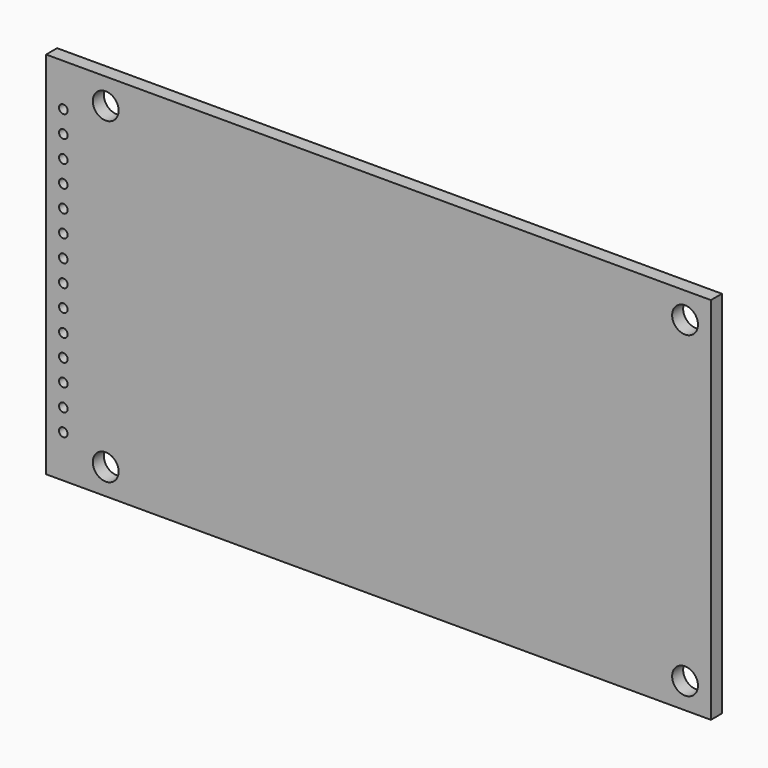
from build123d import *

# Parameters (mm, degrees)
SKETCH002_W         = 77.18
SKETCH002_H         = 42.9
SKETCH002_R         = 1.5
PAD002_DEPTH        = 1.6
SKETCH004_R         = 0.5
POCKET_DEPTH        = 5.801
POCKET_DEPTH_BACK   = 0.001
LINEARPATTERN_COUNT = 14
LINEARPATTERN_PITCH = 2.54


with BuildPart() as part:
    # Sketch002 → Pad002 (new body)
    with BuildSketch(Plane.XZ.offset(-4.2)):
        with Locations((-5.1, 0)):
            Rectangle(SKETCH002_W, SKETCH002_H)
        with Locations((30.49, 18.45)):
            Circle(SKETCH002_R, mode=Mode.SUBTRACT)
        with Locations((30.49, -18.45)):
            Circle(SKETCH002_R, mode=Mode.SUBTRACT)
        with Locations((-36.77, -18.45)):
            Circle(SKETCH002_R, mode=Mode.SUBTRACT)
        with Locations((-36.77, 18.45)):
            Circle(SKETCH002_R, mode=Mode.SUBTRACT)
    extrude(amount=-PAD002_DEPTH)

    # Sketch004 → Pocket (cut, two sides)
    with BuildSketch(Plane.XZ) as pocket_sk:
        with Locations((-41.69, -16.51)):
            Circle(SKETCH004_R)
    pocket = extrude(amount=-POCKET_DEPTH, mode=Mode.SUBTRACT) + extrude(pocket_sk.sketch, amount=POCKET_DEPTH_BACK, mode=Mode.SUBTRACT)

    # LinearPattern: Pocket ×14
    with Locations(*[(0, 0, i * LINEARPATTERN_PITCH) for i in range(1, LINEARPATTERN_COUNT)]):
        add(pocket, mode=Mode.SUBTRACT)


solid = part.part
